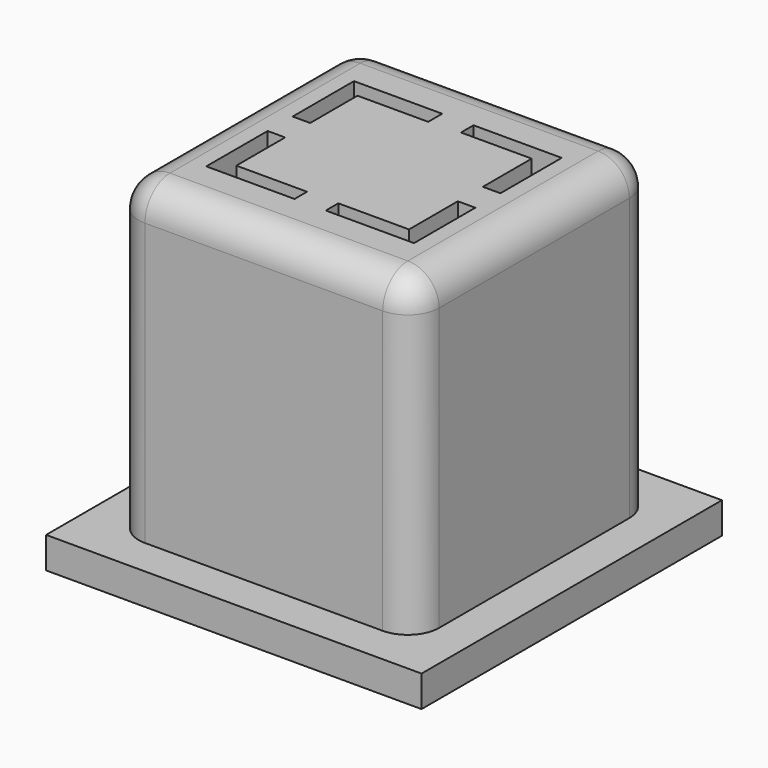
from build123d import *

# Parameters (mm, degrees)
SKETCH_W        = 9.6
SKETCH_H        = 9.6
PAD_DEPTH       = 10
SKETCH002_W     = 12
SKETCH002_H     = 12
PAD001_DEPTH    = 1
SKETCH003_W     = 3
SKETCH003_H     = 6
POCKET_DEPTH    = 9
SKETCH004_W     = 3
SKETCH004_H     = 6
POCKET001_DEPTH = 9
POCKET002_DEPTH = 11.001
POCKET003_DEPTH = 11.001
POCKET004_DEPTH = 11.001
POCKET005_DEPTH = 11.001
FILLET_R        = 1


with BuildPart() as part:
    # Sketch → Pad (new body)
    with BuildSketch(Plane.XY):
        Rectangle(SKETCH_W, SKETCH_H)
    extrude(amount=PAD_DEPTH)

    # Sketch002 → Pad001 (join)
    with BuildSketch(Plane(origin=(0, 0, 0), x_dir=(1, 0, 0), z_dir=(0, 0, -1))):
        Rectangle(SKETCH002_W, SKETCH002_H)
    extrude(amount=PAD001_DEPTH)

    # Sketch003 → Pocket (cut)
    with BuildSketch(Plane(origin=(0, 0, -2), x_dir=(1, 0, 0), z_dir=(0, 0, -1))):
        with Locations((-2.5, 0)):
            Rectangle(SKETCH003_W, SKETCH003_H)
    extrude(amount=-POCKET_DEPTH, mode=Mode.SUBTRACT)

    # Sketch004 → Pocket001 (cut)
    with BuildSketch(Plane(origin=(0, 0, -2), x_dir=(1, 0, 0), z_dir=(0, 0, -1))):
        with Locations((2.5, 0)):
            Rectangle(SKETCH004_W, SKETCH004_H)
    extrude(amount=-POCKET001_DEPTH, mode=Mode.SUBTRACT)

    # Sketch001 → Pocket002 (cut, through all)
    with BuildSketch(Plane.XY.offset(10)):
        Polygon((3.32, -0.5), (3.32, -2.95), (0.5, -2.95), (0.5, -2.45), (2.76, -2.45), (2.76, -0.5), align=None)
    extrude(amount=-POCKET002_DEPTH, mode=Mode.SUBTRACT)

    # Sketch005 → Pocket003 (cut, through all)
    with BuildSketch(Plane.XY.offset(10)):
        Polygon((-3.32, -0.5), (-3.32, -2.95), (-0.5, -2.95), (-0.5, -2.45), (-2.76, -2.45), (-2.76, -0.5), align=None)
    extrude(amount=-POCKET003_DEPTH, mode=Mode.SUBTRACT)

    # Sketch007 → Pocket004 (cut, through all)
    with BuildSketch(Plane.XY.offset(10)):
        Polygon((-2.76, 0.5), (-3.32, 0.5), (-3.32, 2.95), (-0.5, 2.95), (-0.5, 2.39), (-2.76, 2.39), align=None)
    extrude(amount=-POCKET004_DEPTH, mode=Mode.SUBTRACT)

    # Sketch006 → Pocket005 (cut, through all)
    with BuildSketch(Plane.XY.offset(10)):
        Polygon((0.5, 2.95), (3.32, 2.95), (3.32, 0.5), (2.76, 0.5), (2.76, 2.45), (0.5, 2.45), align=None)
    extrude(amount=-POCKET005_DEPTH, mode=Mode.SUBTRACT)

    # Fillet
    fillet_edges = [part.edges().sort_by_distance(p)[0] for p in [
        (0, 4.8, 10),
        (4.8, 0, 10),
        (0, -4.8, 10),
        (4.8, -4.8, 5),
        (4.8, 4.8, 5),
        (-4.8, 0, 10),
        (-4.8, -4.8, 5),
        (-4.8, 4.8, 5),
    ]]
    fillet(fillet_edges, radius=FILLET_R)


solid = part.part
